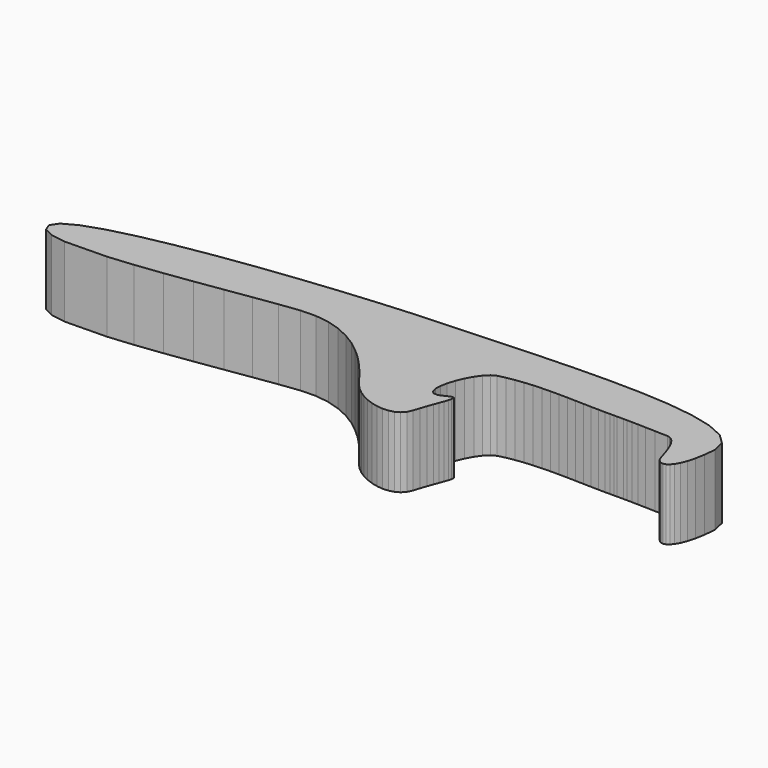
from build123d import *

# Parameters (mm, degrees)
F1_DEPTH = 10


with BuildPart() as f1:
    # F0 (on Top) → F1 (new body)
    with BuildSketch(Plane.XY):
        Polygon((-55.302736, 7.375862), (-58.234972, 6.376695), (-60.152077, 5.339073), (-60.879436, 4.272422), (-60.465326, 3.256186), (-59.146603, 2.608351), (-57.060198, 2.280282), (-51.132099, 2.388886), (-47.564265, 2.728284), (-43.776487, 3.192897), (-39.9057, 3.734085), (-36.088835, 4.303211), (-32.462829, 4.851638), (-29.16461, 5.330727), (-26.331116, 5.691841), (-24.190234, 5.753123), (-22.194411, 5.477108), (-20.343403, 4.916947), (-18.636961, 4.125795), (-17.074837, 3.156806), (-15.656783, 2.063133), (-14.382549, 0.897931), (-13.251887, -0.285646), (-12.26455, -1.434445), (-11.420288, -2.495312), (-10.718854, -3.415091), (-10.159999, -4.140631), (-9.524376, -4.828129), (-8.788524, -5.439376), (-7.97831, -5.964872), (-7.119602, -6.395116), (-6.238268, -6.720607), (-5.360175, -6.931844), (-4.511192, -7.019325), (-3.717186, -6.97355), (-3.004025, -6.785017), (-2.397576, -6.444227), (-1.923709, -5.941677), (-1.60829, -5.267867), (-1.316886, -4.342745), (-1.022677, -3.48605), (-0.73894, -2.704866), (-0.478953, -2.006273), (-0.255994, -1.397351), (-0.083341, -0.885182), (0.025728, -0.476847), (0.057934, -0.179426), (0, 0), (-0.439399, -0.023458), (-0.847422, -0.240503), (-1.750059, -0.642884), (-2.380218, -0.628156), (-2.764398, -0.266297), (-2.929102, 0.372723), (-2.900829, 1.21893), (-2.706082, 2.202353), (-2.371363, 3.253021), (-1.923173, 4.300961), (-1.388014, 5.276201), (-0.792387, 6.108769), (-0.162794, 6.728694), (0.474264, 7.066004), (1.556662, 7.323265), (2.680252, 7.520912), (3.8367, 7.665848), (5.017661, 7.764977), (6.214798, 7.825203), (7.41977, 7.853431), (8.624236, 7.856563), (9.819855, 7.841504), (10.998289, 7.815158), (12.151196, 7.784429), (13.270234, 7.75622), (14.347066, 7.737436), (15.250982, 7.729441), (15.954305, 7.727012), (16.512773, 7.72817), (16.982119, 7.730942), (17.876389, 7.733422), (18.412779, 7.72918), (19.082985, 7.718649), (19.942745, 7.699855), (21.047785, 7.670821), (22.453844, 7.629573), (24.216658, 7.574135), (24.588085, 7.498381), (24.926546, 7.307823), (25.234154, 7.019938), (25.513015, 6.652199), (25.765228, 6.222079), (25.992907, 5.747053), (26.198155, 5.244594), (26.383079, 4.732176), (26.549778, 4.227272), (26.700369, 3.747357), (26.836949, 3.309903), (26.961631, 2.932385), (27.13333, 2.579536), (27.369267, 2.30779), (27.656524, 2.13622), (27.982178, 2.083901), (28.333305, 2.169907), (28.696983, 2.413315), (29.060288, 2.833197), (29.410294, 3.44863), (29.734078, 4.278687), (30.01872, 5.342444), (30.251293, 6.658976), (30.418883, 8.247355), (30.016276, 10.015402), (28.598833, 11.396484), (26.299964, 12.432229), (23.253067, 13.164268), (19.591554, 13.634228), (15.448823, 13.883739), (10.958283, 13.954428), (6.253337, 13.887925), (1.467391, 13.725859), (-3.266151, 13.509857), (-7.813885, 13.281547), (-12.042406, 13.08256), (-16.253359, 12.853671), (-21.020672, 12.501489), (-26.169738, 12.035443), (-31.525944, 11.464957), (-36.914683, 10.799458), (-42.161341, 10.048373), (-47.09131, 9.221129), (-51.529978, 8.327149), align=None)
    extrude(amount=F1_DEPTH)


solid = f1.part
